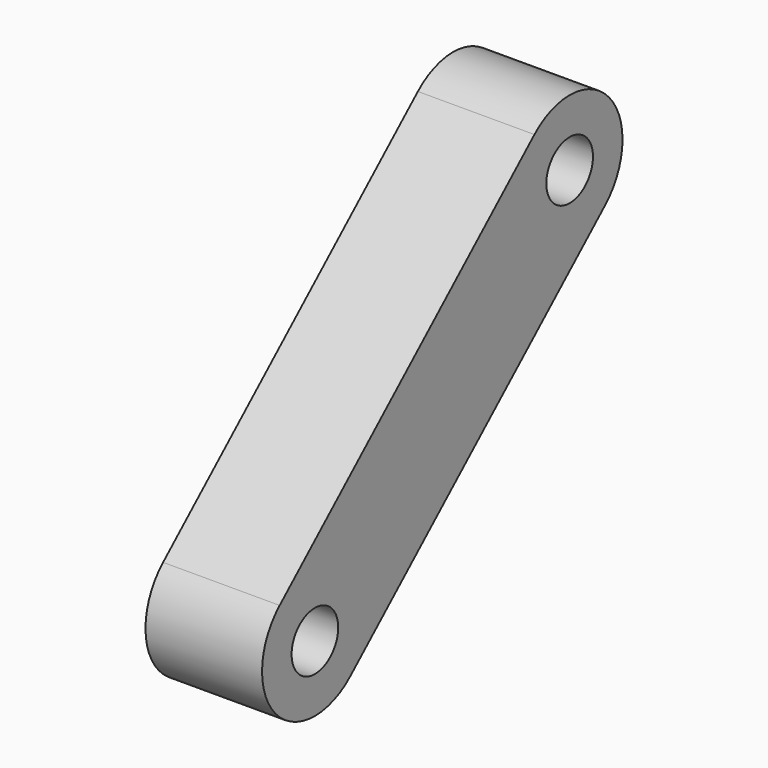
from build123d import *

# Parameters (mm, degrees)
F2_R     = 4.7625
F3_DEPTH = 19.05


with BuildPart() as f3:
    # F2 (on Right) → F3 (new body)
    with BuildSketch(Plane.YZ):
        with BuildLine():
            ThreePointArc((-768.476985, 580.473049), (-767.633589, 595.71617), (-782.87671, 596.559566))
            Line((-782.87671, 596.559566), (-834.921321, 549.972218))
            ThreePointArc((-834.921321, 549.972218), (-835.764717, 534.729097), (-820.521596, 533.885702))
            Line((-820.521596, 533.885702), (-768.476985, 580.473049))
        make_face()
        with Locations((-827.721459, 541.92896)):
            Circle(F2_R, mode=Mode.SUBTRACT)
        with Locations((-775.676847, 588.516307)):
            Circle(F2_R, mode=Mode.SUBTRACT)
    extrude(amount=F3_DEPTH)


solid = f3.part
